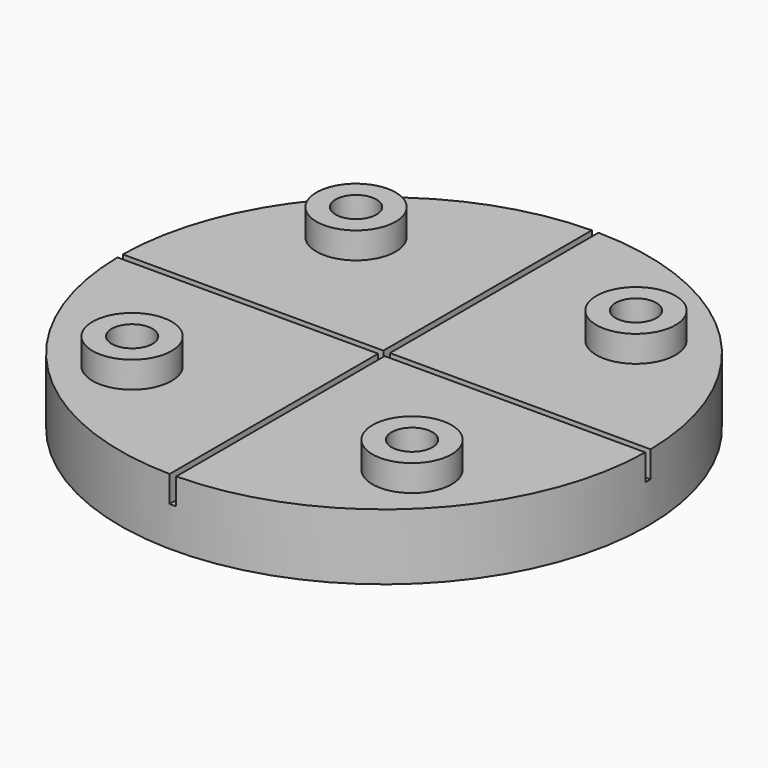
from build123d import *

# Parameters (mm, degrees)
F0_R     = 20
F1_DEPTH = 5
F2_W     = 0.5
F2_H     = 21.0267571211
F2_H_2   = 0.5
F2_W_2   = 21.8651188016
F2_W_3   = 23.3558980227
F2_H_3   = 21.8529557288
F3_DEPTH = 2
F5_R     = 3
F6_DEPTH = 7
F7_DEPTH = 3
F4_R     = 1.55
F8_DEPTH = 5.001
F9_DEPTH = 2.001


with BuildPart() as f1:
    # F0 (on Top) → F1 (new body)
    with BuildSketch(Plane.XY):
        Circle(F0_R)
    extrude(amount=F1_DEPTH)

    # F2 (on face) → F3 (cut)
    with BuildSketch(Plane.XY.offset(5)):
        with Locations((0, 10.7633785605)):
            Rectangle(F2_W, F2_H)
        Rectangle(F2_W, F2_H_2)
        with Locations((-11.1825594008, 0)):
            Rectangle(F2_W_2, F2_H_2)
        with Locations((11.9279490113, 0)):
            Rectangle(F2_W_3, F2_H_2)
        with Locations((0, -11.1764778644)):
            Rectangle(F2_W, F2_H_3)
    extrude(amount=-F3_DEPTH, mode=Mode.SUBTRACT)

    # F5 (on face) → F6 (join)
    with BuildSketch(Plane(origin=(0, 0, 0), x_dir=(1, 0, 0), z_dir=(0, 0, -1))):
        with Locations((-10.6066017178, 10.6066017178)):
            Circle(F5_R)
        with Locations((10.6066017178, 10.6066017178)):
            Circle(F5_R)
        with Locations((10.6066017178, -10.6066017178)):
            Circle(F5_R)
        with Locations((-10.6066017178, -10.6066017178)):
            Circle(F5_R)
    extrude(amount=-F6_DEPTH)

    # F5 (on face) → F7 (cut)
    with BuildSketch(Plane(origin=(0, 0, 0), x_dir=(1, 0, 0), z_dir=(0, 0, -1))):
        with Locations((-10.6066017178, 10.6066017178)):
            Circle(F5_R)
        with Locations((10.6066017178, 10.6066017178)):
            Circle(F5_R)
        with Locations((10.6066017178, -10.6066017178)):
            Circle(F5_R)
        with Locations((-10.6066017178, -10.6066017178)):
            Circle(F5_R)
    extrude(amount=-F7_DEPTH, mode=Mode.SUBTRACT)

    # F4 (on face) → F8 (cut, through all)
    with BuildSketch(Plane.XY.offset(5)):
        with Locations((10.6066017178, -10.6066017178)):
            Circle(F4_R)
        with Locations((10.6066017178, 10.6066017178)):
            Circle(F4_R)
        with Locations((-10.6066017178, 10.6066017178)):
            Circle(F4_R)
        with Locations((-10.6066017178, -10.6066017178)):
            Circle(F4_R)
    extrude(amount=-F8_DEPTH, mode=Mode.SUBTRACT)

    # F4 (on face) → F9 (cut, through all)
    with BuildSketch(Plane.XY.offset(5)):
        with Locations((10.6066017178, -10.6066017178)):
            Circle(F4_R)
        with Locations((10.6066017178, 10.6066017178)):
            Circle(F4_R)
        with Locations((-10.6066017178, 10.6066017178)):
            Circle(F4_R)
        with Locations((-10.6066017178, -10.6066017178)):
            Circle(F4_R)
    extrude(amount=F9_DEPTH, mode=Mode.SUBTRACT)


solid = f1.part
